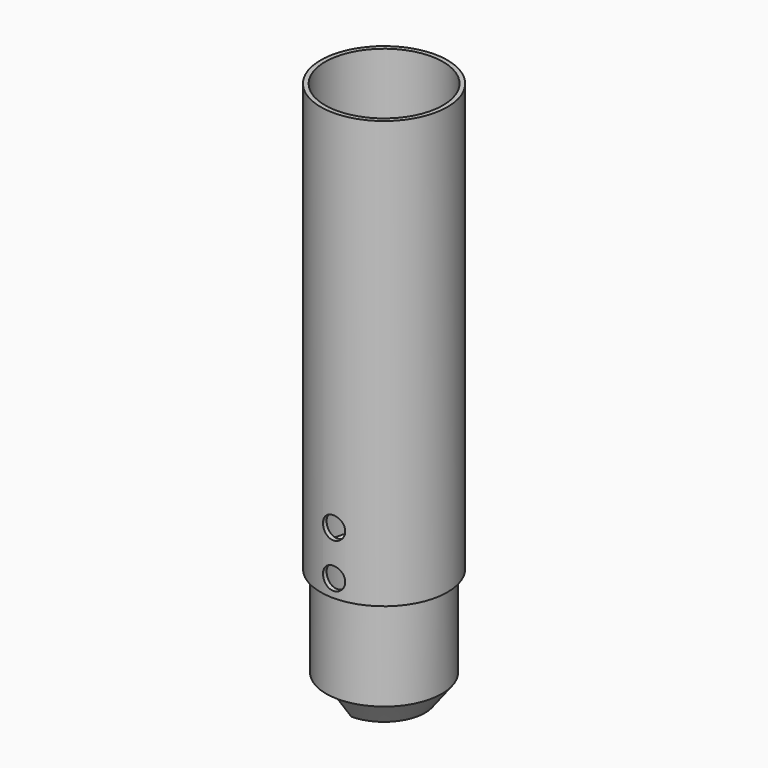
from build123d import *

# Parameters (mm, degrees)
F2_ANGLE = 180
F3_DEPTH = 2.5
F4_R     = 2.616774
F5_DEPTH = 25
F6_R     = 2.5
F7_DEPTH = 25


with BuildPart() as f1:
    # F0 (on Front) → F1 (revolve)
    with BuildSketch(Plane.XZ):
        Polygon((0, 1), (0, 0), (13, 0), (13, 20), (14.25, 20.5), (14.25, 116.5), (13.25, 116.5), (13.25, 21.5), (12, 21), (12, 1), align=None)
    revolve(axis=Axis((0, 0, 0.5), (0, 0, -1)))

    # F0 (on Front) → F2 (revolve, symmetric)
    with BuildSketch(Plane.XZ) as f2_sk:
        Polygon((13, 0), (0, 0), (0, -5), (9.214125, -5), align=None)
    revolve(axis=Axis((0, 0, -2.5), (0, 0, 1)), revolution_arc=F2_ANGLE / 2)
    revolve(f2_sk.sketch, axis=Axis((0, 0, -2.5), (0, 0, -1)), revolution_arc=F2_ANGLE / 2)

    # F0 (on Front) → F3 (join, symmetric)
    with BuildSketch(Plane.XZ):
        Polygon((0, -5), (0, 0), (-12, 0), (-9, -5), align=None)
        Polygon((-8.43381, -4), (-10.23381, -1), (-1, -1), (-1, -4), align=None, mode=Mode.SUBTRACT)
    extrude(amount=F3_DEPTH, both=True)

    # F4 (on face) → F5 (cut)
    with BuildSketch(Plane(origin=(0, 0, 0), x_dir=(1, 0, 0), z_dir=(0, 0, -1))):
        with Locations((-5.104913, 6.11541)):
            Circle(F4_R)
    extrude(amount=-F5_DEPTH, mode=Mode.SUBTRACT)

    # F6 (on Front) → F7 (cut, symmetric)
    with BuildSketch(Plane.XZ):
        with Locations((0, 34.415651)):
            Circle(F6_R)
        with Locations((0, 24.415651)):
            Circle(F6_R)
    extrude(amount=F7_DEPTH, both=True, mode=Mode.SUBTRACT)


solid = f1.part
